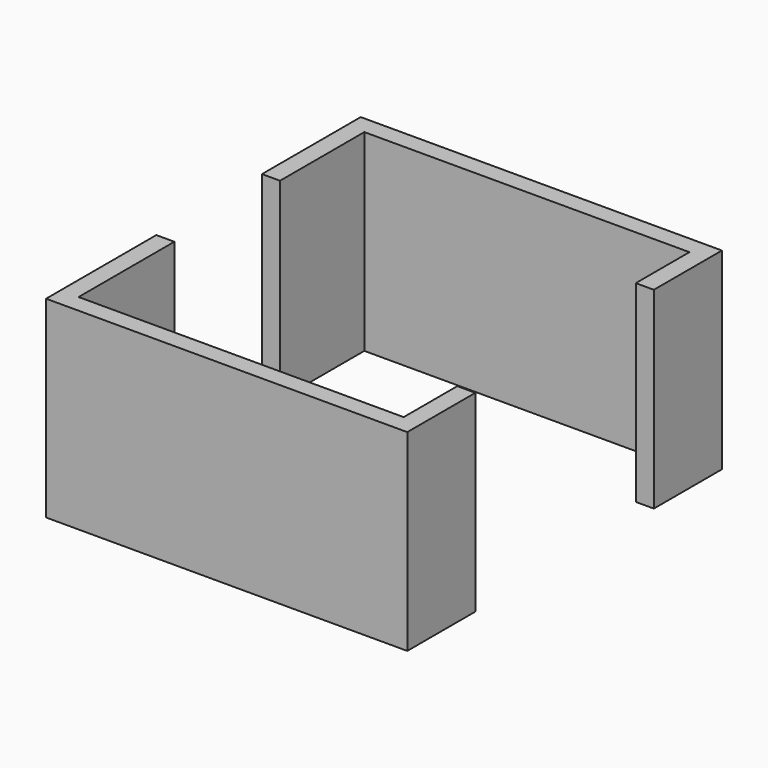
from build123d import *

# Parameters (mm, degrees)
F1_DEPTH = 2400
F4_W     = 1023.9203214645
F4_H     = 1645.610332489
F4_W_2   = 1541.7606830597
F4_W_3   = 225
F5_DEPTH = 2400.001


with BuildPart() as f1:
    # F0 (on Top) → F1 (new body)
    with BuildSketch(Plane.XY):
        Polygon((-2250, -2450), (2250, -2450), (2250, -1390), (2025, -1390), (2025, -2225), (-2025, -2225), (-2025, 2225), (2025, 2225), (2025, 1390), (2250, 1390), (2250, 2450), (-2250, 2450), align=None)
    extrude(amount=F1_DEPTH)

    # F4 (on face) → F5 (cut, through all)
    with BuildSketch(Plane.XY.offset(2400)):
        with Locations((-1513.0398392677, 89.1372561455)):
            Rectangle(F4_W, F4_H)
        with Locations((-3020.8803415298, 89.1372561455)):
            Rectangle(F4_W_2, F4_H)
        with Locations((-2137.5, 89.1372561455)):
            Rectangle(F4_W_3, F4_H)
    extrude(amount=-F5_DEPTH, mode=Mode.SUBTRACT)


solid = f1.part
